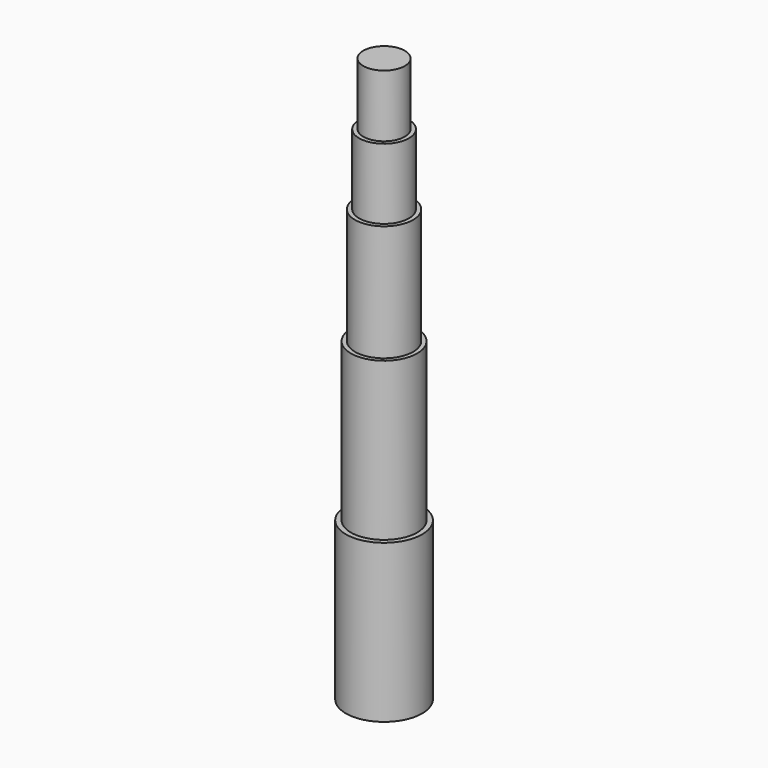
from build123d import *

# Parameters (mm, degrees)
F0_R      = 6.35
F1_DEPTH  = 19.05
F2_R      = 7.62
F3_DEPTH  = 21.59
F5_R      = 8.89
F6_DEPTH  = 35.56
F8_R      = 10.16
F9_DEPTH  = 48.26
F11_R     = 11.682472
F12_DEPTH = 48.26


with BuildPart() as f1:
    # F0 (on Top) → F1 (new body)
    with BuildSketch(Plane.XY):
        Circle(F0_R)
    extrude(amount=F1_DEPTH)

    # F2 (on Top) → F3 (join)
    with BuildSketch(Plane.XY):
        Circle(F2_R)
    extrude(amount=-F3_DEPTH)

    # F5 (on offset) → F6 (join)
    with BuildSketch(Plane.XY.offset(-21.59)):
        Circle(F5_R)
    extrude(amount=-F6_DEPTH)

    # F8 (on offset) → F9 (join)
    with BuildSketch(Plane.XY.offset(-57.15)):
        Circle(F8_R)
    extrude(amount=-F9_DEPTH)

    # F11 (on offset) → F12 (join)
    with BuildSketch(Plane.XY.offset(-105.41)):
        Circle(F11_R)
    extrude(amount=-F12_DEPTH)


solid = f1.part
